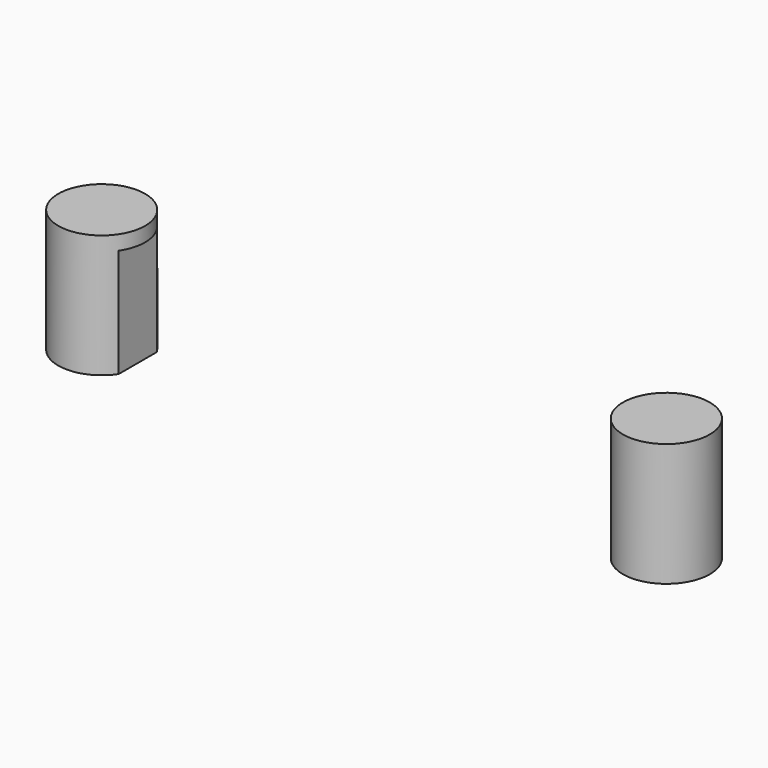
from build123d import *

# Parameters (mm, degrees)
BOX014_W          = 10
BOX014_H          = 10
BOX014_DEPTH      = 15
CYLINDER022_R     = 1.8
CYLINDER022_DEPTH = 15
CYLINDER021_R     = 6
CYLINDER021_DEPTH = 17
BOX012_W          = 5
BOX012_H          = 5
BOX012_DEPTH      = 17
BOX013_W          = 10
BOX013_H          = 10
BOX013_DEPTH      = 15
CYLINDER016_R     = 1.8
CYLINDER016_DEPTH = 15
CYLINDER017_R     = 6
CYLINDER017_DEPTH = 17
BOX011_W          = 5
BOX011_H          = 5
BOX011_DEPTH      = 17


with BuildPart() as kostka014:
    # Box014 → Box014 (new body)
    with BuildSketch(Plane(origin=(23.99, -19.6034, 18), x_dir=(1, 0, 0), z_dir=(0, 0, 1))):
        with Locations((5, 5)):
            Rectangle(BOX014_W, BOX014_H)
    extrude(amount=BOX014_DEPTH)


with BuildPart() as cylinder022:
    # Cylinder022 → Cylinder022 (new body)
    with BuildSketch(Plane(origin=(38.99, -14.6034, 18), x_dir=(1, 0, 0), z_dir=(0, 0, 1))):
        Circle(CYLINDER022_R)
    extrude(amount=CYLINDER022_DEPTH)


with BuildPart() as cylinder021:
    # Cylinder021 → Cylinder021 (new body)
    with BuildSketch(Plane(origin=(38.99, -14.6034, 18), x_dir=(1, 0, 0), z_dir=(0, 0, 1))):
        Circle(CYLINDER021_R)
    extrude(amount=CYLINDER021_DEPTH)


with BuildPart() as cut019:
    # Box012 → Box012 (new body)
    with BuildSketch(Plane(origin=(34.0681, -17.1, 18), x_dir=(1, 0, 0), z_dir=(0, 0, 1))):
        with Locations((2.5, 2.5)):
            Rectangle(BOX012_W, BOX012_H)
    extrude(amount=BOX012_DEPTH)

    # Fusion015: union Cylinder021
    add(cylinder021.part)

    # Cut017: cut Cylinder022
    add(cylinder022.part, mode=Mode.SUBTRACT)

    # Cut019: cut Kostka014
    add(kostka014.part, mode=Mode.SUBTRACT)


with BuildPart() as kostka013:
    # Box013 → Box013 (new body)
    with BuildSketch(Plane(origin=(-34.01, -19.6034, 18), x_dir=(1, 0, 0), z_dir=(0, 0, 1))):
        with Locations((5, 5)):
            Rectangle(BOX013_W, BOX013_H)
    extrude(amount=BOX013_DEPTH)


with BuildPart() as cylinder016:
    # Cylinder016 → Cylinder016 (new body)
    with BuildSketch(Plane(origin=(-39.01, -14.6034, 18), x_dir=(1, 0, 0), z_dir=(0, 0, 1))):
        Circle(CYLINDER016_R)
    extrude(amount=CYLINDER016_DEPTH)


with BuildPart() as cylinder017:
    # Cylinder017 → Cylinder017 (new body)
    with BuildSketch(Plane(origin=(-39.01, -14.6034, 18), x_dir=(1, 0, 0), z_dir=(0, 0, 1))):
        Circle(CYLINDER017_R)
    extrude(amount=CYLINDER017_DEPTH)


with BuildPart() as cover_mount:
    # Box011 → Box011 (new body)
    with BuildSketch(Plane(origin=(-39.01, -17.1034, 18), x_dir=(1, 0, 0), z_dir=(0, 0, 1))):
        with Locations((2.5, 2.5)):
            Rectangle(BOX011_W, BOX011_H)
    extrude(amount=BOX011_DEPTH)

    # Fusion014: union Cylinder017
    add(cylinder017.part)

    # Cut016: cut Cylinder016
    add(cylinder016.part, mode=Mode.SUBTRACT)

    # Cut018: cut Kostka013
    add(kostka013.part, mode=Mode.SUBTRACT)

    # Fusion016: union Cut019
    add(cut019.part)


solid = cover_mount.part
